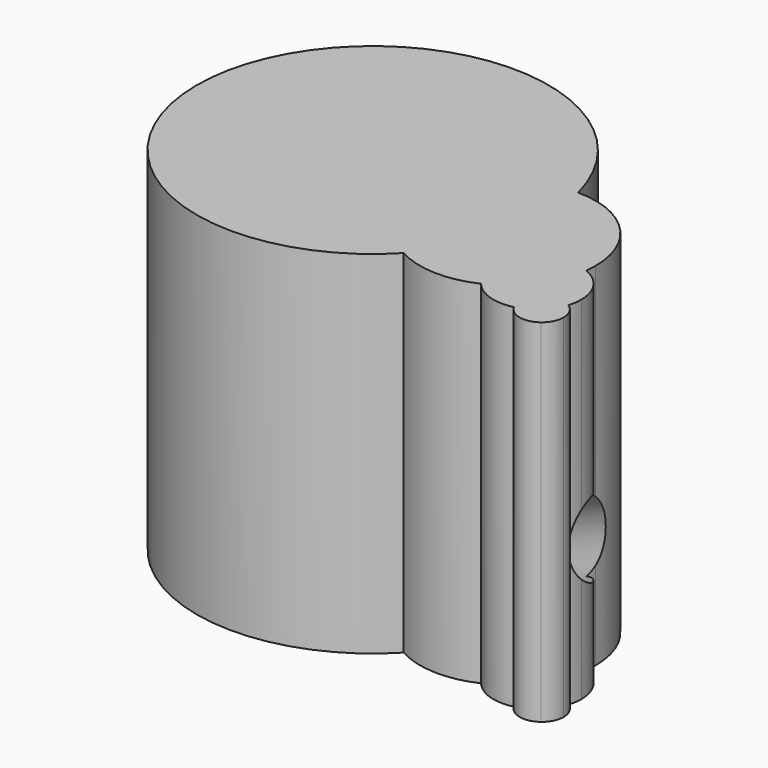
from build123d import *

# Parameters (mm, degrees)
F1_DEPTH = 50.8
F4_R     = 5.08
F5_DEPTH = 63.5


with BuildPart() as f1:
    # F0 (on Top) → F1 (new body)
    with BuildSketch(Plane.XY):
        with BuildLine():
            ThreePointArc((12.7995573241, -1.6389246221), (17.4709677584, 4.1647671705), (24.5934442484, 6.35))
            ThreePointArc((24.5934442484, 6.35), (-6.35, 24.5934442484), (-24.5934442484, -6.35))
            ThreePointArc((-24.5934442484, -6.35), (-6.35, -0.3984375242), (12.7995573241, -1.6389246221))
        make_face()
        with BuildLine():
            ThreePointArc((12.7995573241, -1.6389246221), (-6.35, -0.3984375242), (-24.5934442484, -6.35))
            ThreePointArc((-24.5934442484, -6.35), (-6.35, -24.5934442484), (18.4450831863, -17.4625))
            ThreePointArc((18.4450831863, -17.4625), (12.6319455908, -10.6176164148), (12.7995573241, -1.6389246221))
        make_face()
        with BuildLine():
            ThreePointArc((18.4450831863, -17.4625), (22.225, -12.2967221242), (24.5934442484, -6.35))
            ThreePointArc((24.5934442484, -6.35), (18.8443015114, -3.6244523026), (12.7995573241, -1.6389246221))
            ThreePointArc((12.7995573241, -1.6389246221), (12.6319455908, -10.6176164148), (18.4450831863, -17.4625))
        make_face()
        with BuildLine():
            ThreePointArc((24.5934442484, -6.35), (25.1975542852, -3.2005090291), (25.4, 0))
            ThreePointArc((25.4, 0), (25.1975542852, 3.2005090291), (24.5934442484, 6.35))
            ThreePointArc((24.5934442484, 6.35), (17.4709677584, 4.1647671705), (12.7995573241, -1.6389246221))
            ThreePointArc((12.7995573241, -1.6389246221), (18.8443015114, -3.6244523026), (24.5934442484, -6.35))
        make_face()
        with BuildLine():
            ThreePointArc((24.5934442484, 6.35), (25.1975542852, 3.2005090291), (25.4, 0))
            ThreePointArc((25.4, 0), (25.1975542852, -3.2005090291), (24.5934442484, -6.35))
            ThreePointArc((24.5934442484, -6.35), (27.3340357189, -7.9807229005), (29.9669059095, -9.7801931963))
            ThreePointArc((29.9669059095, -9.7801931963), (33.2813397987, -7.6860670857), (37.1938348674, -7.9375))
            ThreePointArc((37.1938348674, -7.9375), (37.2685174407, -7.1453109893), (37.2934442484, -6.35))
            ThreePointArc((37.2934442484, -6.35), (33.5737003695, 2.6302561211), (24.5934442484, 6.35))
        make_face()
        with BuildLine():
            ThreePointArc((29.9669059095, -9.7801931963), (27.3340357189, -7.9807229005), (24.5934442484, -6.35))
            ThreePointArc((24.5934442484, -6.35), (22.225, -12.2967221242), (18.4450831863, -17.4625))
            ThreePointArc((18.4450831863, -17.4625), (24.1451446263, -19.0420852286), (29.9424477824, -17.8686006613))
            ThreePointArc((29.9424477824, -17.8686006613), (28.5002699382, -13.8199990211), (29.9669059095, -9.7801931963))
        make_face()
        with BuildLine():
            ThreePointArc((34.8502409072, -13.8392003779), (32.4720574524, -11.7333200181), (29.9669059095, -9.7801931963))
            ThreePointArc((29.9669059095, -9.7801931963), (28.5002699382, -13.8199990211), (29.9424477824, -17.8686006613))
            ThreePointArc((29.9424477824, -17.8686006613), (32.6522448152, -16.1655862497), (34.8502409072, -13.8392003779))
        make_face()
        with BuildLine():
            ThreePointArc((37.1938348674, -7.9375), (33.2813397987, -7.6860670857), (29.9669059095, -9.7801931963))
            ThreePointArc((29.9669059095, -9.7801931963), (32.4720574524, -11.7333200181), (34.8502409072, -13.8392003779))
            ThreePointArc((34.8502409072, -13.8392003779), (36.3968450041, -11.0371879203), (37.1938348674, -7.9375))
        make_face()
        with BuildLine():
            ThreePointArc((41.2002409072, -13.8392003779), (40.1040167707, -10.272641928), (37.1938348674, -7.9375))
            ThreePointArc((37.1938348674, -7.9375), (36.3968450041, -11.0371879203), (34.8502409072, -13.8392003779))
            ThreePointArc((34.8502409072, -13.8392003779), (35.9893415804, -14.9474227898), (37.0932189983, -16.0907346038))
            ThreePointArc((37.0932189983, -16.0907346038), (38.9431027022, -15.3102596751), (40.8913363289, -15.7956425842))
            ThreePointArc((40.8913363289, -15.7956425842), (41.1225393666, -14.829539732), (41.2002409072, -13.8392003779))
        make_face()
        with BuildLine():
            ThreePointArc((34.8502409072, -13.8392003779), (32.6522448152, -16.1655862497), (29.9424477824, -17.8686006613))
            ThreePointArc((29.9424477824, -17.8686006613), (32.8633256958, -19.8703418903), (36.4020454568, -19.9966676039))
            ThreePointArc((36.4020454568, -19.9966676039), (36.0626125115, -17.922483586), (37.0932189983, -16.0907346038))
            ThreePointArc((37.0932189983, -16.0907346038), (35.9893415804, -14.9474227898), (34.8502409072, -13.8392003779))
        make_face()
        with BuildLine():
            ThreePointArc((37.0932189983, -16.0907346038), (36.0626125115, -17.922483586), (36.4020454568, -19.9966676039))
            ThreePointArc((36.4020454568, -19.9966676039), (37.892136008, -19.4131912458), (39.1890408908, -18.4757200535))
            ThreePointArc((39.1890408908, -18.4757200535), (38.1597671946, -17.2668497207), (37.0932189983, -16.0907346038))
        make_face()
        with BuildLine():
            ThreePointArc((40.8913363289, -15.7956425842), (38.9431027022, -15.3102596751), (37.0932189983, -16.0907346038))
            ThreePointArc((37.0932189983, -16.0907346038), (38.1597671946, -17.2668497207), (39.1890408908, -18.4757200535))
            ThreePointArc((39.1890408908, -18.4757200535), (40.2103958459, -17.243791254), (40.8913363289, -15.7956425842))
        make_face()
        with BuildLine():
            ThreePointArc((42.3640408908, -18.4757200535), (41.971612814, -16.9466947129), (40.8913363289, -15.7956425842))
            ThreePointArc((40.8913363289, -15.7956425842), (40.2103958459, -17.243791254), (39.1890408908, -18.4757200535))
            ThreePointArc((39.1890408908, -18.4757200535), (40.1800346913, -19.7161647764), (41.1317805923, -20.9869722217))
            ThreePointArc((41.1317805923, -20.9869722217), (42.0393762704, -19.8743669796), (42.3640408908, -18.4757200535))
        make_face()
        with BuildLine():
            ThreePointArc((39.1890408908, -18.4757200535), (37.892136008, -19.4131912458), (36.4020454568, -19.9966676039))
            ThreePointArc((36.4020454568, -19.9966676039), (38.5383737374, -21.583332844), (41.1317805923, -20.9869722217))
            ThreePointArc((41.1317805923, -20.9869722217), (40.1800346913, -19.7161647764), (39.1890408908, -18.4757200535))
        make_face()
    extrude(amount=F1_DEPTH)

    # F4 (on 3pt) → F5 (cut, symmetric)
    with BuildSketch(Plane(origin=(36.3446660233, -9.3841524154, 17.0086899215), x_dir=(0.2062459752, 0.9737281746, 0.0965196334), z_dir=(0.8819306257, -0.2277135084, 0.4127286391))):
        Circle(F4_R)
    extrude(amount=F5_DEPTH, both=True, mode=Mode.SUBTRACT)


solid = f1.part
